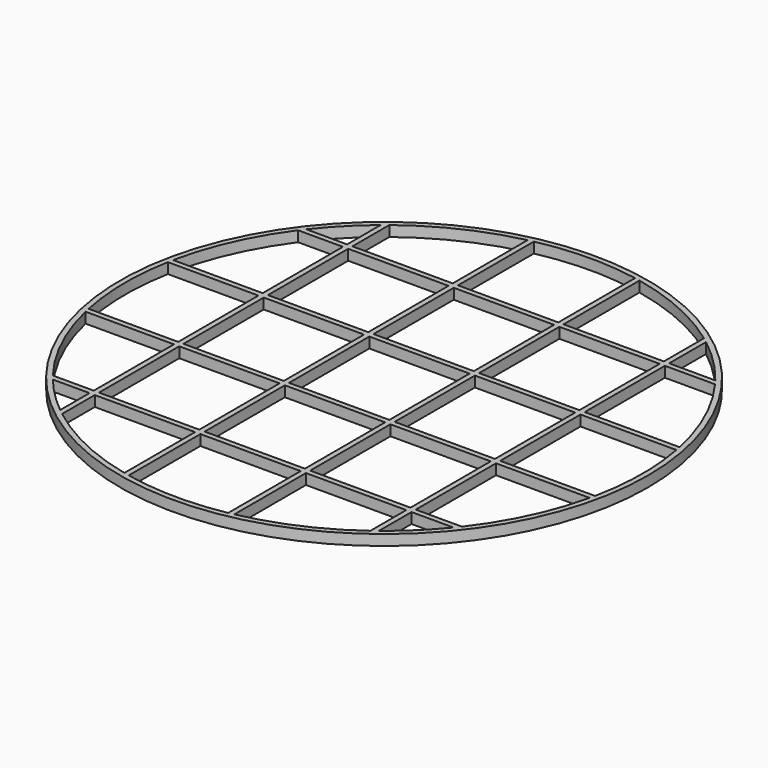
from build123d import *

# Parameters (mm, degrees)
F0_R     = 5
F0_W     = 1.9
F0_H     = 1.9
F1_DEPTH = 0.2


with BuildPart() as f1:
    # F0 (on Top) → F1 (new body)
    with BuildSketch(Plane.XY):
        Circle(F0_R)
        with BuildLine():
            ThreePointArc((-3.1, -3.794733), (-3.464823, -3.464823), (-3.794733, -3.1))
            Line((-3.794733, -3.1), (-3.1, -3.1))
            Line((-3.1, -3.1), (-3.1, -3.794733))
        make_face(mode=Mode.SUBTRACT)
        with BuildLine():
            Line((-3, -3.1), (-1.1, -3.1))
            Line((-1.1, -3.1), (-1.1, -4.774935))
            ThreePointArc((-1.1, -4.774935), (-2.09888, -4.42772), (-3, -3.874274))
            Line((-3, -3.874274), (-3, -3.1))
        make_face(mode=Mode.SUBTRACT)
        with BuildLine():
            Line((-1, -3.1), (0.9, -3.1))
            Line((0.9, -3.1), (0.9, -4.816638))
            ThreePointArc((0.9, -4.816638), (-0.050967, -4.899735), (-1, -4.796874))
            Line((-1, -4.796874), (-1, -3.1))
        make_face(mode=Mode.SUBTRACT)
        with BuildLine():
            ThreePointArc((-3.874274, -3), (-4.42772, -2.09888), (-4.774935, -1.1))
            Line((-4.774935, -1.1), (-3.1, -1.1))
            Line((-3.1, -1.1), (-3.1, -3))
            Line((-3.1, -3), (-3.874274, -3))
        make_face(mode=Mode.SUBTRACT)
        with BuildLine():
            Line((-4.816638, 0.9), (-3.1, 0.9))
            Line((-3.1, 0.9), (-3.1, -1))
            Line((-3.1, -1), (-4.796874, -1))
            ThreePointArc((-4.796874, -1), (-4.899735, -0.050967), (-4.816638, 0.9))
        make_face(mode=Mode.SUBTRACT)
        with Locations((-2.05, -2.05)):
            Rectangle(F0_W, F0_H, mode=Mode.SUBTRACT)
        with Locations((-0.05, -2.05)):
            Rectangle(F0_W, F0_H, mode=Mode.SUBTRACT)
        with Locations((-2.05, -0.05)):
            Rectangle(F0_W, F0_H, mode=Mode.SUBTRACT)
        with Locations((-0.05, -0.05)):
            Rectangle(F0_W, F0_H, mode=Mode.SUBTRACT)
        with BuildLine():
            Line((1, -3.1), (2.9, -3.1))
            Line((2.9, -3.1), (2.9, -3.949684))
            ThreePointArc((2.9, -3.949684), (1.995478, -4.475273), (1, -4.796874))
            Line((1, -4.796874), (1, -3.1))
        make_face(mode=Mode.SUBTRACT)
        with BuildLine():
            Line((3, -3.1), (3.794733, -3.1))
            ThreePointArc((3.794733, -3.1), (3.419353, -3.509704), (3, -3.874274))
            Line((3, -3.874274), (3, -3.1))
        make_face(mode=Mode.SUBTRACT)
        with Locations((1.95, -2.05)):
            Rectangle(F0_W, F0_H, mode=Mode.SUBTRACT)
        with Locations((1.95, -0.05)):
            Rectangle(F0_W, F0_H, mode=Mode.SUBTRACT)
        with BuildLine():
            Line((3, -3), (3, -1.1))
            Line((3, -1.1), (4.774935, -1.1))
            ThreePointArc((4.774935, -1.1), (4.42772, -2.09888), (3.874274, -3))
            Line((3.874274, -3), (3, -3))
        make_face(mode=Mode.SUBTRACT)
        with BuildLine():
            Line((3, 0.9), (4.816638, 0.9))
            ThreePointArc((4.816638, 0.9), (4.899735, -0.050967), (4.796874, -1))
            Line((4.796874, -1), (3, -1))
            Line((3, -1), (3, 0.9))
        make_face(mode=Mode.SUBTRACT)
        with BuildLine():
            ThreePointArc((-4.796874, 1), (-4.475273, 1.995478), (-3.949684, 2.9))
            Line((-3.949684, 2.9), (-3.1, 2.9))
            Line((-3.1, 2.9), (-3.1, 1))
            Line((-3.1, 1), (-4.796874, 1))
        make_face(mode=Mode.SUBTRACT)
        with Locations((-2.05, 1.95)):
            Rectangle(F0_W, F0_H, mode=Mode.SUBTRACT)
        with Locations((-0.05, 1.95)):
            Rectangle(F0_W, F0_H, mode=Mode.SUBTRACT)
        with BuildLine():
            ThreePointArc((-3.874274, 3), (-3.509704, 3.419353), (-3.1, 3.794733))
            Line((-3.1, 3.794733), (-3.1, 3))
            Line((-3.1, 3), (-3.874274, 3))
        make_face(mode=Mode.SUBTRACT)
        with BuildLine():
            Line((-3, 3), (-3, 3.874274))
            ThreePointArc((-3, 3.874274), (-2.09888, 4.42772), (-1.1, 4.774935))
            Line((-1.1, 4.774935), (-1.1, 3))
            Line((-1.1, 3), (-3, 3))
        make_face(mode=Mode.SUBTRACT)
        with BuildLine():
            Line((-1, 3), (-1, 4.796874))
            ThreePointArc((-1, 4.796874), (-0.050967, 4.899735), (0.9, 4.816638))
            Line((0.9, 4.816638), (0.9, 3))
            Line((0.9, 3), (-1, 3))
        make_face(mode=Mode.SUBTRACT)
        with Locations((1.95, 1.95)):
            Rectangle(F0_W, F0_H, mode=Mode.SUBTRACT)
        with BuildLine():
            Line((3, 1), (3, 2.9))
            Line((3, 2.9), (3.949684, 2.9))
            ThreePointArc((3.949684, 2.9), (4.475273, 1.995478), (4.796874, 1))
            Line((4.796874, 1), (3, 1))
        make_face(mode=Mode.SUBTRACT)
        with BuildLine():
            Line((1, 3), (1, 4.796874))
            ThreePointArc((1, 4.796874), (1.995478, 4.475273), (2.9, 3.949684))
            Line((2.9, 3.949684), (2.9, 3))
            Line((2.9, 3), (1, 3))
        make_face(mode=Mode.SUBTRACT)
        with BuildLine():
            Line((3, 3), (3, 3.874274))
            ThreePointArc((3, 3.874274), (3.464823, 3.464823), (3.874274, 3))
            Line((3.874274, 3), (3, 3))
        make_face(mode=Mode.SUBTRACT)
    extrude(amount=F1_DEPTH)


solid = f1.part
